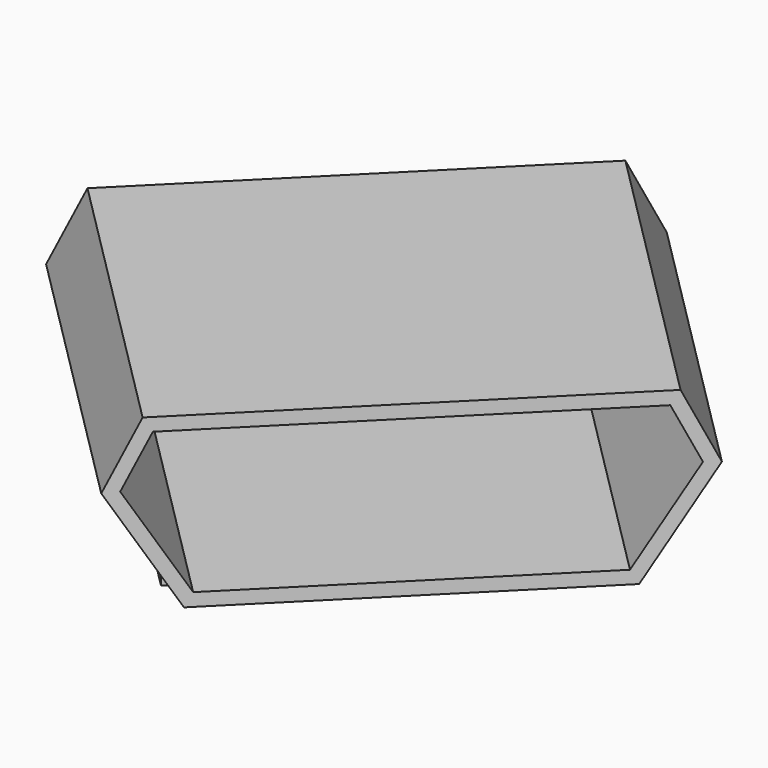
from build123d import *

# Parameters (mm, degrees)
PAD020_DEPTH            = 6
THICKNESS_T             = -0.2
SKETCH043_W             = 0.1
SKETCH043_H             = 1
PAD001_DEPTH            = 1
SKETCH044_W             = 0.5
SKETCH044_H             = 0.5
PAD002_DEPTH            = 0.4
SKETCH003_W             = 0.32
SKETCH003_H             = 1.35
PAD003_DEPTH            = 0.1
BODY001_ROLL_ANGLE      = 90
BODY001_PLACEMENT_ANGLE = 45


with BuildPart() as part:
    # Sketch042 → Pad020 (new body)
    with BuildSketch(Plane.XY):
        Polygon((0, 0), (6.5, 0), (7, -1), (6, -2.6), (0.5, -2.6), (-0.5, -1), align=None)
    extrude(amount=PAD020_DEPTH)

    # Thickness
    thickness_openings = [part.faces().sort_by_distance(p)[0] for p in [
        (3.25, -1.25728, 6),
    ]]
    offset(amount=THICKNESS_T, openings=thickness_openings)

    # Sketch043 (on Face5 of Thickness) → Pad001 (join)
    with BuildSketch(Plane.XZ.offset(2.6)):
        with Locations((5.95, 3)):
            Rectangle(SKETCH043_W, SKETCH043_H)
        with Locations((0.55, 3)):
            Rectangle(SKETCH043_W, SKETCH043_H)
    extrude(amount=PAD001_DEPTH)

    # Sketch044 (on Face7 of Pad001) → Pad002 (join)
    with BuildSketch(Plane.XZ.offset(2.6)):
        with Locations((1.35, 0.25)):
            Rectangle(SKETCH044_W, SKETCH044_H)
        with Locations((5.15, 0.25)):
            Rectangle(SKETCH044_W, SKETCH044_H)
    extrude(amount=PAD002_DEPTH)

    # Sketch003 (on Face7 of Pad002) → Pad003 (join)
    with BuildSketch(Plane.XZ.offset(2.6)):
        with Locations((1.81, -0.025)):
            Rectangle(SKETCH003_W, SKETCH003_H)
        with Locations((2.53, -0.025)):
            Rectangle(SKETCH003_W, SKETCH003_H)
        with Locations((3.25, -0.025)):
            Rectangle(SKETCH003_W, SKETCH003_H)
        with Locations((3.97, -0.025)):
            Rectangle(SKETCH003_W, SKETCH003_H)
        with Locations((4.69, -0.025)):
            Rectangle(SKETCH003_W, SKETCH003_H)
    extrude(amount=PAD003_DEPTH)


with BuildPart() as part_1:
    # Body001 roll: moved
    add(part.part.rotate(Axis((0, 0, 0), (1, 0, 0)), BODY001_ROLL_ANGLE))


with BuildPart() as part_2:
    # Body001 placement: moved
    add(part_1.part.moved(Location((43.464109, -48.029794, 4))).rotate(Axis((43.464109, -48.029794, 4), (0, 0, 1)), BODY001_PLACEMENT_ANGLE))


solid = part_2.part
